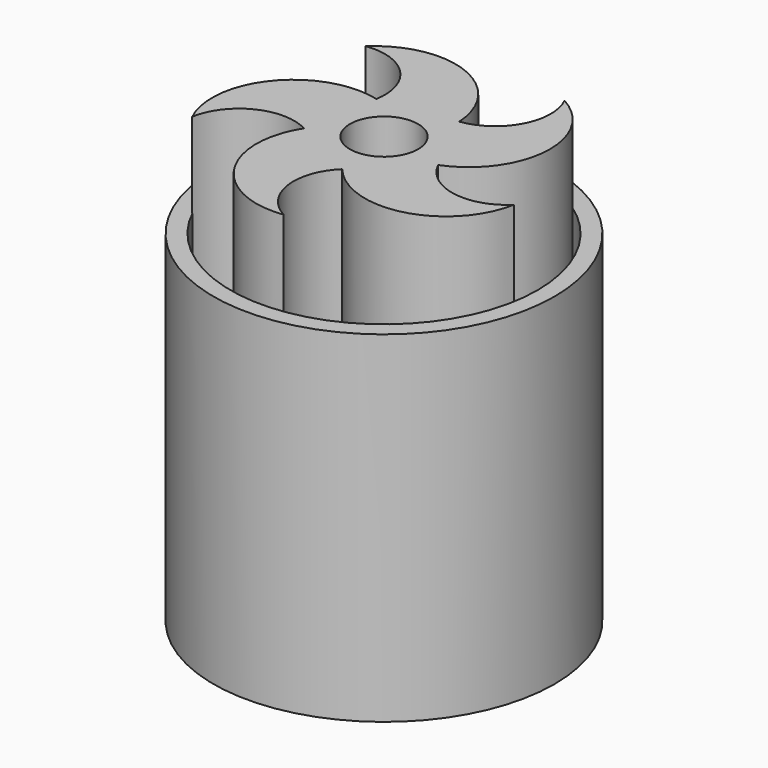
from build123d import *

# Parameters (mm, degrees)
F0_R     = 10
F0_R_2   = 9
F1_DEPTH = 20
F2_R     = 2
F3_DEPTH = 25


with BuildPart() as f1:
    # F0 (on Top) → F1 (new body)
    with BuildSketch(Plane.XY):
        Circle(F0_R)
        Circle(F0_R_2, mode=Mode.SUBTRACT)
    extrude(amount=F1_DEPTH)


with BuildPart() as f3:
    # F2 (on Top) → F3 (new body)
    with BuildSketch(Plane.XY):
        with BuildLine():
            Line((3.692941, -0.651678), (0.521399, -3.713576))
            ThreePointArc((0.521399, -3.713576), (5.377735, -5.299015), (8.863059, -1.564027))
            ThreePointArc((8.863059, -1.564027), (6.045568, -2.425006), (3.692941, -0.651678))
        make_face()
        Polygon((-3.370699, -1.643438), (0.521399, -3.713576), (3.692941, -0.651678), (1.760964, 3.310816), (-2.604606, 2.697875), align=None)
        Circle(F2_R, mode=Mode.SUBTRACT)
        with BuildLine():
            ThreePointArc((-6.251053, 6.4749), (-3.465584, 5.515367), (-2.604606, 2.697875))
            Line((-2.604606, 2.697875), (1.760964, 3.310816))
            ThreePointArc((1.760964, 3.310816), (-1.235996, 7.447947), (-6.251053, 6.4749))
        make_face()
        with BuildLine():
            Line((1.760964, 3.310816), (3.692941, -0.651678))
            ThreePointArc((3.692941, -0.651678), (6.701475, 3.477044), (4.226314, 7.945959))
            ThreePointArc((4.226314, 7.945959), (4.174501, 5.000308), (1.760964, 3.310816))
        make_face()
        with BuildLine():
            ThreePointArc((-8.089678, -3.944251), (-6.31635, -1.591624), (-3.370699, -1.643438))
            Line((-3.370699, -1.643438), (-2.604606, 2.697875))
            ThreePointArc((-2.604606, 2.697875), (-7.465362, 1.12604), (-8.089678, -3.944251))
        make_face()
        with BuildLine():
            ThreePointArc((1.251358, -8.912581), (-0.438135, -6.499045), (0.521399, -3.713576))
            Line((0.521399, -3.713576), (-3.370699, -1.643438))
            ThreePointArc((-3.370699, -1.643438), (-3.377852, -6.752016), (1.251358, -8.912581))
        make_face()
    extrude(amount=F3_DEPTH)


solid = Compound([f1.part, f3.part])
